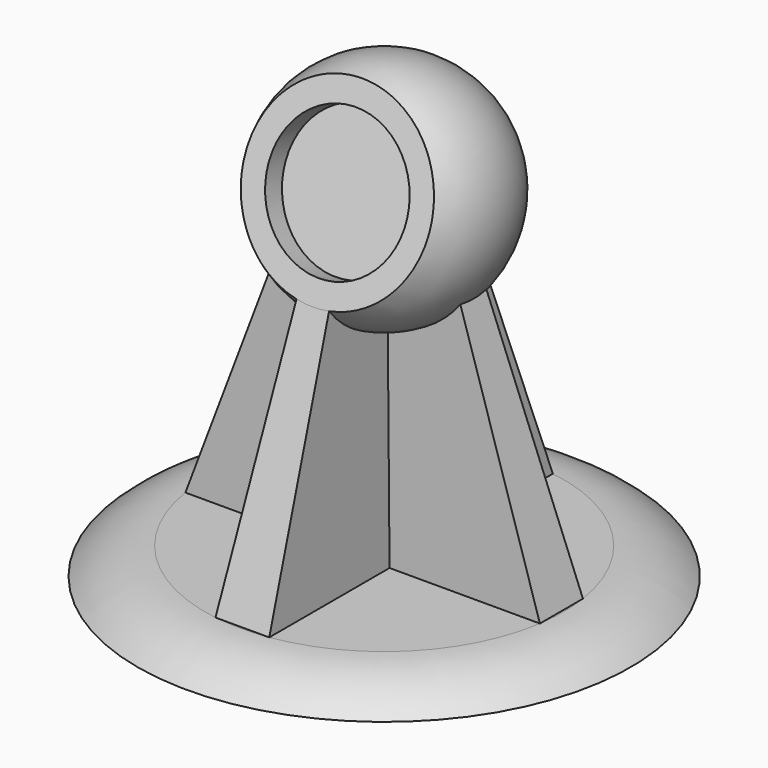
from build123d import *

# Parameters (mm, degrees)
SKETCH004_R     = 20.812872
POCKET_DEPTH    = 46.345478
SKETCH005_R     = 15.581959
POCKET001_DEPTH = 5


with BuildPart() as part:
    # Sketch001 → Revolution (revolve)
    with BuildSketch(Plane.XZ):
        with BuildLine():
            Line((0, -6), (-40, -6))
            Line((-40, -6), (-55, -6))
            ThreePointArc((-40, 0), (-48.077747, -1.555632), (-55, -6))
            Line((-40, 0), (0, 0))
            Line((0, -6), (0, 0))
        make_face()
    revolve(axis=Axis((0, 0, 0), (0, 0, 1)))

    # Sketch002 (on Face4 of Revolution) → AdditiveLoft section 0
    with BuildSketch(Plane(origin=(0, 0, 0), x_dir=(-1, 0, 0), z_dir=(0, 0, 1))):
        Polygon((-6, 39.54744), (6, 39.54744), (6, 6), (39.54744, 6), (39.54744, -6), (6, -6), (6, -39.54744), (-6, -39.54744), (-6, -6), (-39.54744, -6), (-39.54744, 6), (-6, 6), align=None)
    # Sketch003 (on Face4 of Revolution) → AdditiveLoft section 1
    with BuildSketch(Plane(origin=(0, 0, 70), x_dir=(-1, 0, 0), z_dir=(0, 0, 1))):
        Polygon((-3, 14.696938), (3, 14.696938), (3, 3), (14.696938, 3), (14.696938, -3), (3, -3), (3, -14.696938), (-3, -14.696938), (-3, -3), (-14.696938, -3), (-14.696938, 3), (-3, 3), align=None)
    loft()

    # Sphere → Sphere (revolve)
    with BuildSketch(Plane(origin=(0, 0, 70), x_dir=(-1, 0, 0), z_dir=(0, 1, 0))):
        with BuildLine():
            ThreePointArc((0, -25), (25, 0), (0, 25))
            Line((0, 25), (0, -25))
        make_face()
    revolve(axis=Axis((0, 0, 70), (0, 0, 1)))

    # Sketch004 (on DatumPlane) → Pocket (cut, through all)
    with BuildSketch(Plane(origin=(0, -30.562796, 25.308346), x_dir=(-1, 0, 0), z_dir=(0, -0.942378, 0.334551))):
        with Locations((0, -52.341228)):
            Circle(SKETCH004_R)
    extrude(amount=POCKET_DEPTH, mode=Mode.SUBTRACT)

    # Sketch005 (on Face25 of Pocket) → Pocket001 (cut)
    with BuildSketch(Plane(origin=(0, -13.051994, 74.633552), x_dir=(1, 0, 0), z_dir=(0, -0.942378, 0.334551))):
        Circle(SKETCH005_R)
    extrude(amount=-POCKET001_DEPTH, mode=Mode.SUBTRACT)


solid = part.part
